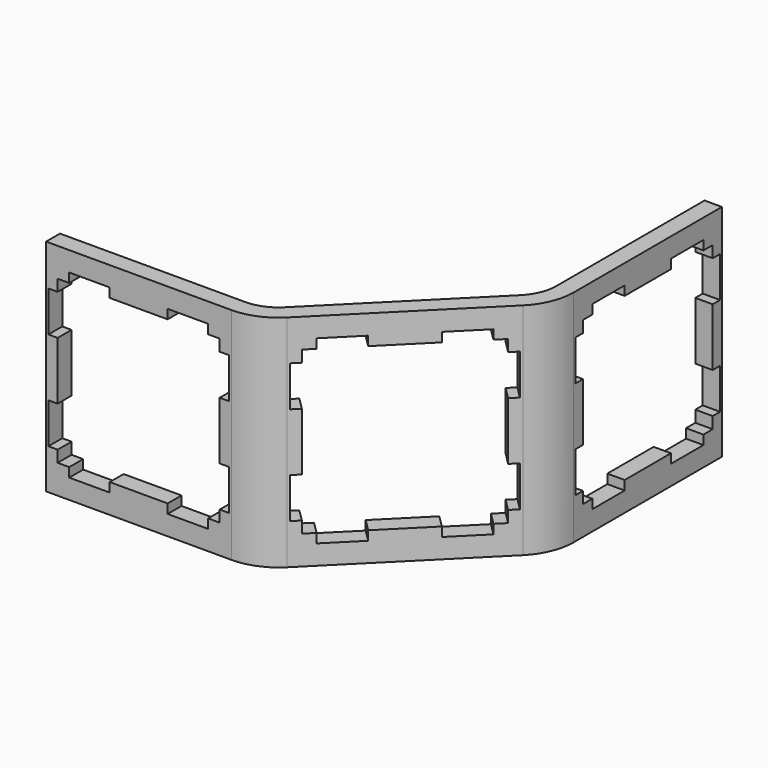
from build123d import *

# Parameters (mm, degrees)
PAD_DEPTH       = 19
POCKET_DEPTH    = 11.62232
POCKET002_DEPTH = 1.501
POCKET003_DEPTH = 1.501


with BuildPart() as part:
    # Sketch → Pad (new body)
    with BuildSketch(Plane.XY):
        with BuildLine():
            Line((0, 0), (16, 0))
            ThreePointArc((16, 0), (17.959845, 0.389838), (19.62132, 1.500001))
            Line((19.62132, 1.500001), (30.935023, 12.813715))
            ThreePointArc((30.935023, 12.813715), (32.045185, 14.475191), (32.435022, 16.435035))
            Line((32.435022, 32.435035), (32.435022, 16.435035))
            Line((30.935022, 32.435035), (32.435022, 32.435035))
            Line((30.935022, 16.435035), (30.935022, 32.435035))
            ThreePointArc((29.874363, 13.874375), (30.659366, 15.049216), (30.935022, 16.435035))
            Line((29.874363, 13.874375), (18.56066, 2.560661))
            ThreePointArc((16, 1.5), (17.385819, 1.775657), (18.56066, 2.560661))
            Line((16, 1.5), (0, 1.5))
            Line((0, 1.5), (0, 0))
        make_face()
    extrude(amount=PAD_DEPTH)

    # Sketch004 → Pocket (cut, through all)
    with BuildSketch(Plane(origin=(8.000009, -8.000001, 0), x_dir=(-0.707106, -0.707107, 0), z_dir=(-0.707107, 0.707106, 0))):
        Polygon((-28.935023, 17.3), (-25.435023, 17.3), (-25.435023, 16.5), (-20.435023, 16.5), (-20.435023, 17.3), (-16.935023, 17.3), (-16.935023, 16.5), (-15.935023, 16.5), (-15.935023, 15.5), (-15.135024, 15.5), (-15.135024, 12), (-15.935023, 12), (-15.935023, 7), (-15.135024, 7), (-15.135024, 3.5), (-15.935023, 3.5), (-15.935023, 2.5), (-16.935023, 2.5), (-16.935023, 1.7), (-20.435023, 1.7), (-20.435023, 2.5), (-25.435023, 2.5), (-25.435023, 1.7), (-28.935023, 1.7), (-28.935023, 2.5), (-29.935023, 2.5), (-29.935023, 3.5), (-30.735024, 3.5), (-30.735024, 7), (-29.935023, 7), (-29.935023, 12), (-30.735024, 12), (-30.735024, 15.5), (-29.935023, 15.5), (-29.935023, 16.5), (-28.935023, 16.5), align=None)
    extrude(amount=-POCKET_DEPTH, mode=Mode.SUBTRACT)

    # Sketch004001 → Pocket002 (cut, through all)
    with BuildSketch(Plane(origin=(30.935022, 0, 0), x_dir=(0, -1, 0), z_dir=(-1, 0, 0))):
        Polygon((-30.435035, 17.3), (-26.935035, 17.3), (-26.935035, 16.5), (-21.935035, 16.5), (-21.935035, 17.3), (-18.435035, 17.3), (-18.435035, 16.5), (-17.435035, 16.5), (-17.435035, 15.5), (-16.635036, 15.5), (-16.635036, 12), (-17.435035, 12), (-17.435035, 7), (-16.635036, 7), (-16.635036, 3.5), (-17.435035, 3.5), (-17.435035, 2.5), (-18.435035, 2.5), (-18.435035, 1.7), (-21.935035, 1.7), (-21.935035, 2.5), (-26.935035, 2.5), (-26.935035, 1.7), (-30.435035, 1.7), (-30.435035, 2.5), (-31.435035, 2.5), (-31.435035, 3.5), (-32.235036, 3.5), (-32.235036, 7), (-31.435035, 7), (-31.435035, 12), (-32.235036, 12), (-32.235036, 15.5), (-31.435035, 15.5), (-31.435035, 16.5), (-30.435035, 16.5), align=None)
    extrude(amount=-POCKET002_DEPTH, mode=Mode.SUBTRACT)

    # Sketch004001001 → Pocket003 (cut, through all)
    with BuildSketch(Plane(origin=(0, 1.5, 0), x_dir=(-1, 0, 0), z_dir=(0, 1, 0))):
        Polygon((-14, 17.3), (-10.5, 17.3), (-10.5, 16.5), (-5.5, 16.5), (-5.5, 17.3), (-2, 17.3), (-2, 16.5), (-1, 16.5), (-1, 15.5), (-0.200001, 15.5), (-0.200001, 12), (-1, 12), (-1, 7), (-0.200001, 7), (-0.200001, 3.5), (-1, 3.5), (-1, 2.5), (-2, 2.5), (-2, 1.7), (-5.5, 1.7), (-5.5, 2.5), (-10.5, 2.5), (-10.5, 1.7), (-14, 1.7), (-14, 2.5), (-15, 2.5), (-15, 3.5), (-15.800001, 3.5), (-15.800001, 7), (-15, 7), (-15, 12), (-15.800001, 12), (-15.800001, 15.5), (-15, 15.5), (-15, 16.5), (-14, 16.5), align=None)
    extrude(amount=-POCKET003_DEPTH, mode=Mode.SUBTRACT)


with BuildPart() as part_1:
    # Clone placement: moved
    add(part.part.moved(Location((0, 2.38, 19))))


solid = part_1.part
